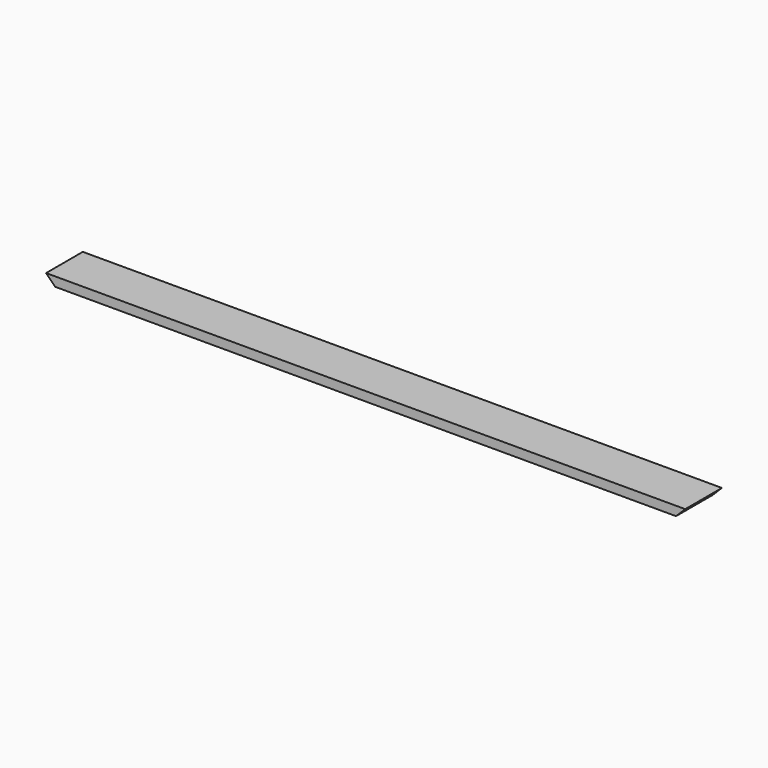
from build123d import *

# Parameters (mm, degrees)
F0_W     = 1216.025
F0_H     = 87.3125
F1_DEPTH = 17.4625
F3_DEPTH = 87.3125


with BuildPart() as f1:
    # F0 (on Top) → F1 (new body)
    with BuildSketch(Plane.XY):
        with Locations((-608.0125, -43.65625)):
            Rectangle(F0_W, F0_H)
    extrude(amount=F1_DEPTH)

    # F2 (on face) → F3 (cut)
    with BuildSketch(Plane(origin=(0, 0, 0), x_dir=(-1, 0, 0), z_dir=(0, 1, 0))):
        Polygon((17.4625, 0), (0, 17.4625), (0, 0), align=None)
        Polygon((1216.025, 0), (1216.025, 17.4625), (1198.5625, 0), align=None)
    extrude(amount=-F3_DEPTH, mode=Mode.SUBTRACT)


solid = f1.part
